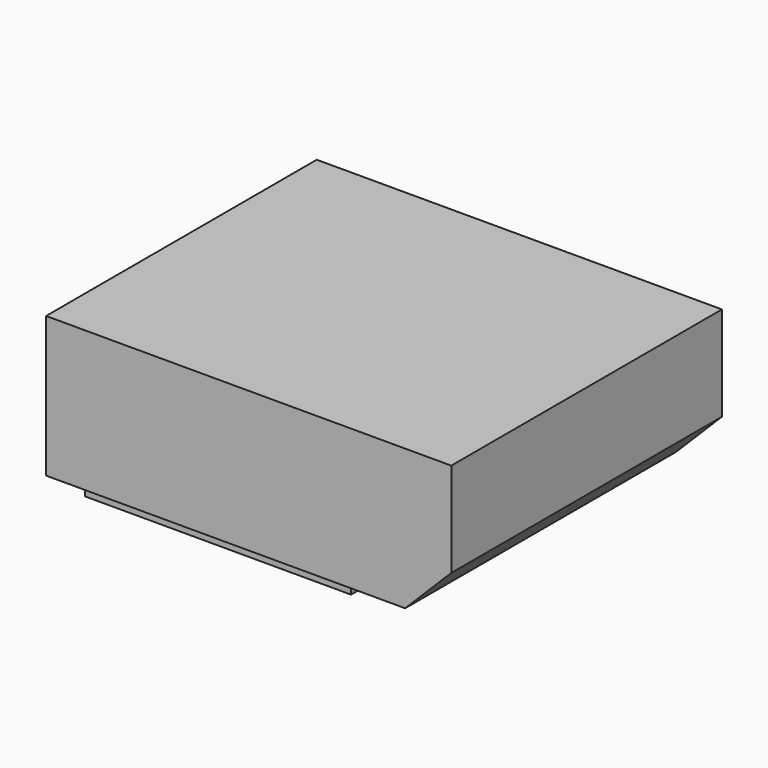
from build123d import *

# Parameters (mm, degrees)
F0_W     = 111.695483
F0_H     = 93.271062
F1_DEPTH = 38.75114
F2_SIZE  = 12.7
F3_W     = 73.332176
F3_H     = 55.99878
F4_DEPTH = 6.398048


with BuildPart() as f1:
    # F0 (on Top) → F1 (new body)
    with BuildSketch(Plane.XY):
        with Locations((12.841567, 46.635531)):
            Rectangle(F0_W, F0_H)
    extrude(amount=-F1_DEPTH)

    # F2
    f2_edges = [f1.edges().sort_by_distance(p)[0] for p in [
        (68.689309, 46.635531, -38.75114),
    ]]
    chamfer(f2_edges, length=F2_SIZE)

    # F3 (on face) → F4 (join)
    with BuildSketch(Plane(origin=(0, 0, -38.75114), x_dir=(1, 0, 0), z_dir=(0, 0, -1))):
        with Locations((-1.400314, -35.273772)):
            Rectangle(F3_W, F3_H)
    extrude(amount=F4_DEPTH)


solid = f1.part
